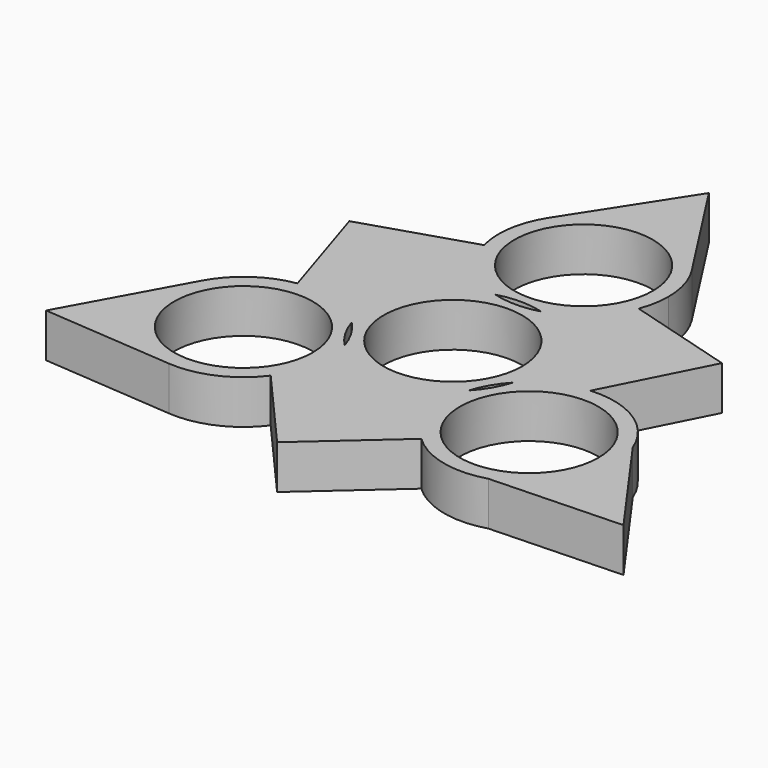
from build123d import *

# Parameters (mm, degrees)
F0_R     = 11.05
F1_DEPTH = 7


with BuildPart() as f1:
    # F0 (on Top) → F1 (new body)
    with BuildSketch(Plane.XY):
        with BuildLine():
            ThreePointArc((-12.952465851, -3.9794633281), (-11.897169851, 6.4853565465), (-3.6734662474, 13.0425513504))
            ThreePointArc((-3.6734662474, 13.0425513504), (-9.6519900745, 16.5750244887), (-13.095528212, 22.6052117759))
            Line((-13.095528212, 22.6052117759), (-30.250578046, 17.155049834))
            Line((-30.250578046, 17.155049834), (-24.8004161041, 0))
            ThreePointArc((-24.8004161041, 0), (-18.3902139195, -0.5421007851), (-12.952465851, -3.9794633281))
        make_face()
        with BuildLine():
            ThreePointArc((13.4649016197, -23.1048524771), (9.7069874768, -16.6824224669), (9.9070767838, -9.244042925))
            ThreePointArc((9.9070767838, -9.244042925), (0.1126292817, -13.5495318976), (-9.7520378408, -9.4074575711))
            ThreePointArc((-9.7520378408, -9.4074575711), (-9.3047198823, -11.374883658), (-9.1545036918, -13.3869208991))
            ThreePointArc((-9.1545036918, -13.3869208991), (-9.8481855399, -17.6668255216), (-11.8582060648, -21.5085172809))
            Line((-11.8582060648, -21.5085172809), (0, -35.0504133418))
            Line((0, -35.0504133418), (13.4649016197, -23.1048524771))
        make_face()
        with BuildLine():
            ThreePointArc((3.6734662474, 13.0425513504), (10.8022675317, 8.1800682255), (13.55, 0))
            ThreePointArc((13.55, 0), (13.3926985837, -2.0586706017), (12.9244465467, -4.0695431515))
            ThreePointArc((12.9244465467, -4.0695431515), (16.9568611894, -1.1033098828), (21.7910765488, 0.1964091305))
            Line((21.7910765488, 0.1964091305), (29.9475820114, 16.2423250794))
            Line((29.9475820114, 16.2423250794), (12.6588580732, 21.2523175532))
            ThreePointArc((12.6588580732, 21.2523175532), (9.1398178157, 16.0817917342), (3.6734662474, 13.0425513504))
        make_face()
        with BuildLine():
            ThreePointArc((12.9244465467, -4.0695431515), (13.3926985837, -2.0586706017), (13.55, 0))
            ThreePointArc((13.55, 0), (10.8022675317, 8.1800682255), (3.6734662474, 13.0425513504))
            ThreePointArc((3.6734662474, 13.0425513504), (0, 12.5351027009), (-3.6734662474, 13.0425513504))
            ThreePointArc((-3.6734662474, 13.0425513504), (-11.897169851, 6.4853565465), (-12.952465851, -3.9794633281))
            ThreePointArc((-12.952465851, -3.9794633281), (-11.0323401242, -6.50483563), (-9.7520378408, -9.4074575711))
            ThreePointArc((-9.7520378408, -9.4074575711), (0.1126292817, -13.5495318976), (9.9070767838, -9.244042925))
            ThreePointArc((9.9070767838, -9.244042925), (11.1262477518, -6.4879708203), (12.9244465467, -4.0695431515))
        make_face()
        Circle(F0_R, mode=Mode.SUBTRACT)
        with BuildLine():
            ThreePointArc((21.7910765488, 0.1964091305), (16.9568611894, -1.1033098828), (12.9244465467, -4.0695431515))
            ThreePointArc((12.9244465467, -4.0695431515), (11.7052755787, -6.8256152562), (9.9070767838, -9.244042925))
            ThreePointArc((9.9070767838, -9.244042925), (9.7069874768, -16.6824224669), (13.4649016197, -23.1048524771))
            ThreePointArc((13.4649016197, -23.1048524771), (19.6505959817, -26.484926221), (26.6971337744, -26.3004854715))
            ThreePointArc((26.6971337744, -26.3004854715), (33.6938785428, -21.4136934365), (36.3815233305, -13.3135860765))
            ThreePointArc((36.3815233305, -13.3135860765), (36.1557920846, -10.8505874635), (35.4861193205, -8.4696516911))
            ThreePointArc((35.4861193205, -8.4696516911), (30.0770231752, -1.8634667758), (21.7910765488, 0.1964091305))
        make_face()
        with Locations((22.8315233305, -13.3135860765)):
            Circle(F0_R, mode=Mode.SUBTRACT)
        with BuildLine():
            Line((47.6842049522, -25.5637064155), (35.4861193205, -8.4696516911))
            ThreePointArc((35.4861193205, -8.4696516911), (36.1557920846, -10.8505874635), (36.3815233305, -13.3135860765))
            ThreePointArc((36.3815233305, -13.3135860765), (33.6938785428, -21.4136934365), (26.6971337744, -26.3004854715))
            Line((26.6971337744, -26.3004854715), (47.6842049522, -25.5637064155))
        make_face()
        with BuildLine():
            ThreePointArc((-9.7520378408, -9.4074575711), (-11.6721635676, -6.8820852692), (-12.952465851, -3.9794633281))
            ThreePointArc((-12.952465851, -3.9794633281), (-18.3902139195, -0.5421007851), (-24.8004161041, 0))
            ThreePointArc((-24.8004161041, 0), (-30.4885177102, -2.2958602753), (-34.5814492108, -6.864600366))
            ThreePointArc((-34.5814492108, -6.864600366), (-34.6243485245, -19.8305067924), (-23.7527808459, -26.896310782))
            ThreePointArc((-23.7527808459, -26.896310782), (-17.1136736104, -25.729737393), (-11.8582060648, -21.5085172809))
            ThreePointArc((-11.8582060648, -21.5085172809), (-9.8481855399, -17.6668255216), (-9.1545036918, -13.3869208991))
            ThreePointArc((-9.1545036918, -13.3869208991), (-9.3047198823, -11.374883658), (-9.7520378408, -9.4074575711))
        make_face()
        with Locations((-22.7045036918, -13.3869208991)):
            Circle(F0_R, mode=Mode.SUBTRACT)
        with BuildLine():
            ThreePointArc((-23.7527808459, -26.896310782), (-34.6243485245, -19.8305067924), (-34.5814492108, -6.864600366))
            Line((-34.5814492108, -6.864600366), (-44.6898426571, -25.2716746022))
            Line((-44.6898426571, -25.2716746022), (-23.7527808459, -26.896310782))
        make_face()
        with BuildLine():
            Line((0, 51.0771514364), (-11.3856212034, 33.4315392393))
            ThreePointArc((-11.3856212034, 33.4315392393), (0, 39.6351027009), (11.3856212034, 33.4315392393))
            Line((11.3856212034, 33.4315392393), (0, 51.0771514364))
        make_face()
        with BuildLine():
            ThreePointArc((-3.6734662474, 13.0425513504), (0, 13.55), (3.6734662474, 13.0425513504))
            ThreePointArc((3.6734662474, 13.0425513504), (9.1398178157, 16.0817917342), (12.6588580732, 21.2523175532))
            ThreePointArc((12.6588580732, 21.2523175532), (13.3253522822, 23.6279729619), (13.55, 26.0851027009))
            ThreePointArc((13.55, 26.0851027009), (12.9976472353, 29.9144193954), (11.3856212034, 33.4315392393))
            ThreePointArc((11.3856212034, 33.4315392393), (0, 39.6351027009), (-11.3856212034, 33.4315392393))
            ThreePointArc((-11.3856212034, 33.4315392393), (-13.3840954405, 28.1989828393), (-13.095528212, 22.6052117759))
            ThreePointArc((-13.095528212, 22.6052117759), (-9.6519900745, 16.5750244887), (-3.6734662474, 13.0425513504))
        make_face()
        with Locations((0, 26.0851027009)):
            Circle(F0_R, mode=Mode.SUBTRACT)
    extrude(amount=F1_DEPTH)


solid = f1.part
